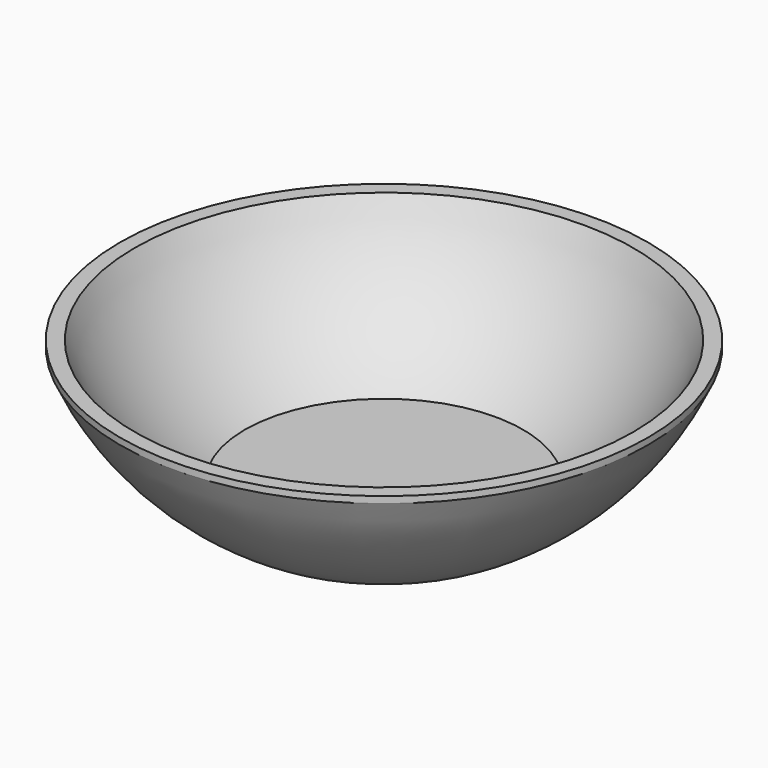
from build123d import *


with BuildPart() as f1:
    # F0 (on Front) → F1 (revolve)
    with BuildSketch(Plane.XZ):
        with BuildLine():
            ThreePointArc((-79.156086, -25.310139), (-92.352043, -14.405525), (-101.6, 0))
            Line((-101.6, 0), (-104.620417, 0))
            Line((-104.620417, 0), (-104.620417, -1.334275))
            ThreePointArc((-104.620417, -1.334275), (-94.516522, -16.938778), (-80.048562, -28.612139))
            Line((-80.048562, -28.612139), (-50.8, -28.612139))
            Line((-50.8, -28.612139), (-50.8, -25.310139))
            Line((-50.8, -25.310139), (-79.156086, -25.310139))
        make_face()
    revolve(axis=Axis((-50.8, 0, -26.961139), (0, 0, -1)))


solid = f1.part
